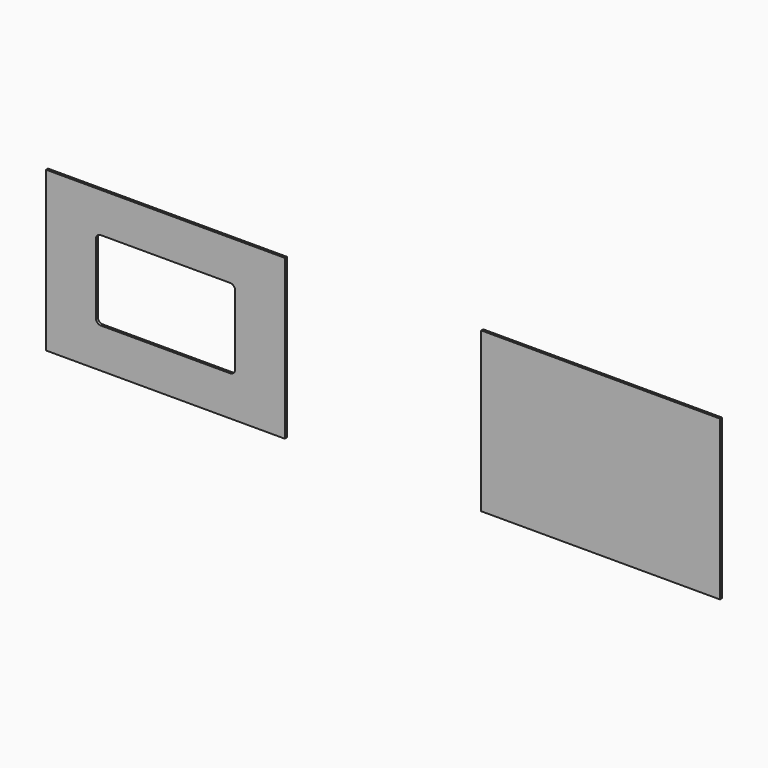
from build123d import *

# Parameters (mm, degrees)
F0_W     = 609.6
F0_H     = 406.4
F0_W_2   = 355.6
F0_H_2   = 203.2
F1_DEPTH = 6.35
F2_R     = 12.7
F3_W     = 609.6
F3_H     = 406.4
F4_DEPTH = 6.35


with BuildPart() as f1:
    # F0 (on Front) → F1 (new body)
    with BuildSketch(Plane.XZ):
        Rectangle(F0_W, F0_H)
        Rectangle(F0_W_2, F0_H_2, mode=Mode.SUBTRACT)
    extrude(amount=F1_DEPTH)

    # F2
    f2_edges = [f1.edges().sort_by_distance(p)[0] for p in [
        (-177.8, -3.175, 101.6),
        (177.8, -3.175, 101.6),
        (177.8, -3.175, -101.6),
        (-177.8, -3.175, -101.6),
    ]]
    fillet(f2_edges, radius=F2_R)


with BuildPart() as f4:
    # F3 (on Front) → F4 (new body)
    with BuildSketch(Plane.XZ):
        with Locations((1110.761046, 0)):
            Rectangle(F3_W, F3_H)
    extrude(amount=F4_DEPTH)


solid = Compound([f1.part, f4.part])
